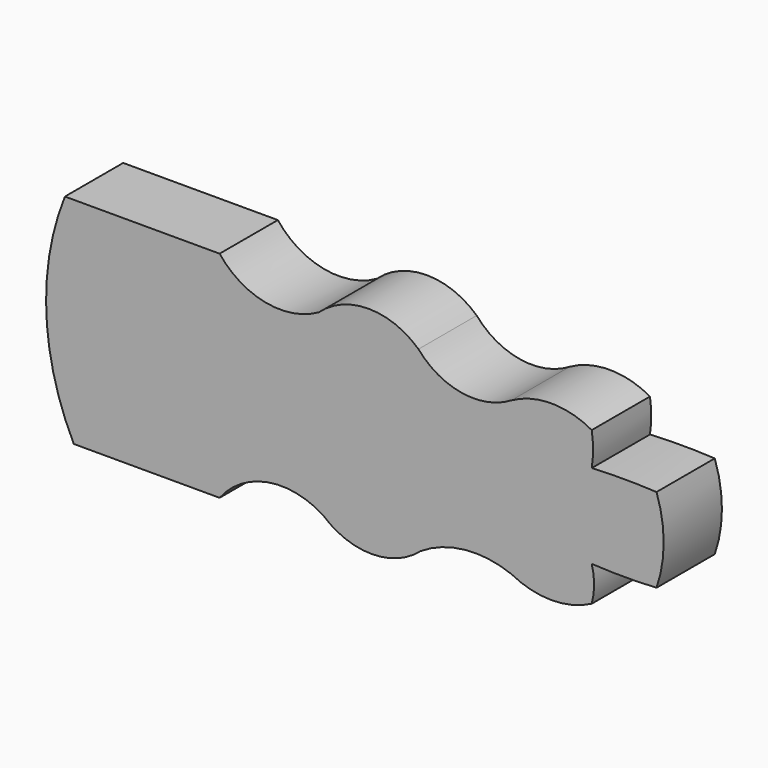
from build123d import *

# Parameters (mm, degrees)
F1_DEPTH = 25.4


with BuildPart() as f1:
    # F0 (on Front) → F1 (new body)
    with BuildSketch(Plane.XZ):
        with BuildLine():
            ThreePointArc((70.111157, -29.528858), (64.82074, 1.313272), (69.386698, 32.270945))
            ThreePointArc((69.386698, 32.270945), (51.992809, 39.03154), (34.59892, 32.270945))
            ThreePointArc((34.59892, 32.270945), (29.893964, 1.244372), (36.041575, -29.528858))
            ThreePointArc((36.041575, -29.528858), (53.076366, -35.966931), (70.111157, -29.528858))
        make_face()
        with BuildLine():
            ThreePointArc((101.791199, 27.068468), (84.635881, 23.733368), (69.386698, 32.270945))
            ThreePointArc((69.386698, 32.270945), (64.82074, 1.313272), (70.111157, -29.528858))
            ThreePointArc((70.111157, -29.528858), (85.560524, -24.101311), (101.791199, -26.270727))
            ThreePointArc((101.791199, -26.270727), (98.099114, 0.39887), (101.791199, 27.068468))
        make_face()
        with BuildLine():
            ThreePointArc((36.041575, -29.528858), (29.893964, 1.244372), (34.59892, 32.270945))
            ThreePointArc((34.59892, 32.270945), (16.047725, 29.245195), (0, 39.03154))
            Line((0, 39.03154), (-53.967841, 39.03154))
            ThreePointArc((-53.967841, 39.03154), (-60.466973, 1.200982), (-50.878648, -35.966931))
            Line((-50.878648, -35.966931), (0, -35.966931))
            ThreePointArc((0, -35.966931), (16.76772, -25.732983), (36.041575, -29.528858))
        make_face()
        with BuildLine():
            ThreePointArc((129.847508, 27.068468), (115.819353, 30.70991), (101.791199, 27.068468))
            ThreePointArc((101.791199, 27.068468), (98.099114, 0.39887), (101.791199, -26.270727))
            ThreePointArc((101.791199, -26.270727), (115.819353, -29.729842), (129.847508, -26.270727))
            ThreePointArc((129.847508, -26.270727), (130.654455, -20.145006), (129.847508, -14.019285))
            ThreePointArc((129.847508, -14.019285), (128.08968, 0.688918), (129.847508, 15.397122))
            ThreePointArc((129.847508, 15.397122), (130.317745, 21.232795), (129.847508, 27.068468))
        make_face()
        with BuildLine():
            ThreePointArc((152.453851, 15.397122), (141.150679, 15.689305), (129.847508, 15.397122))
            ThreePointArc((129.847508, 15.397122), (128.08968, 0.688918), (129.847508, -14.019285))
            ThreePointArc((129.847508, -14.019285), (141.150679, -14.335005), (152.453851, -14.019285))
            ThreePointArc((152.453851, -14.019285), (154.9497, 0.688918), (152.453851, 15.397122))
        make_face()
    extrude(amount=F1_DEPTH)


solid = f1.part
